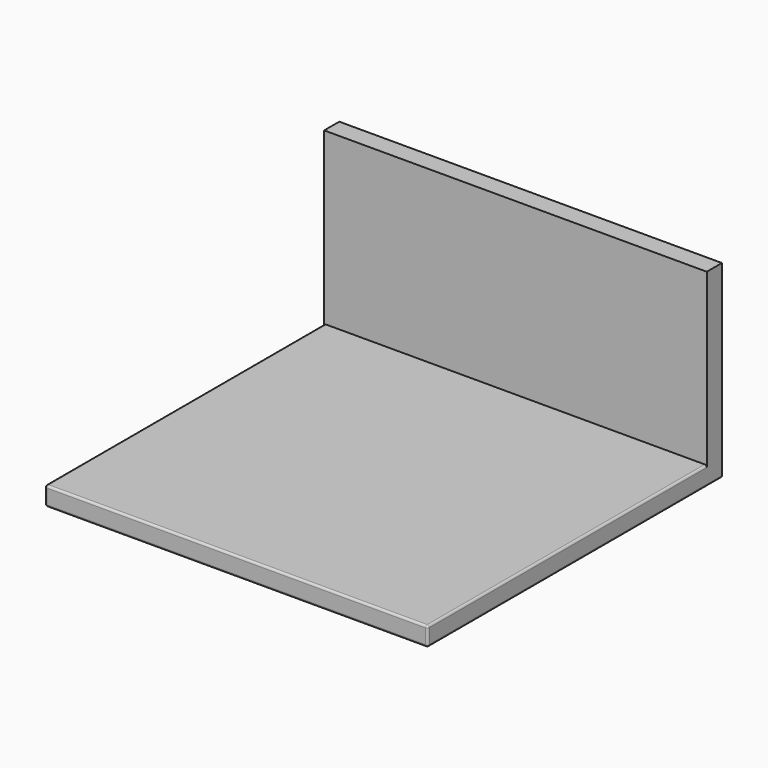
from build123d import *

# Parameters (mm, degrees)
F0_W     = 37.1829867363
F0_H     = 34.0256392956
F1_DEPTH = 350
F2_DEPTH = 400
F3_DEPTH = 180
F4_T     = -18
F5_DEPTH = 36
F6_R     = 2
F7_R     = 2
F8_R     = 2


with BuildPart() as f1:
    # F0 (on Front) → F1 (new body)
    with BuildSketch(Plane.XZ):
        with Locations((18.5914933681, 17.0128196478)):
            Rectangle(F0_W, F0_H)
    extrude(amount=F1_DEPTH)

    # F2 (add): a face of the model
    f2_faces = [f1.faces().sort_by_distance(p)[0] for p in [
        (0, -175, 17.0128196478),
    ]]
    extrude(f2_faces, amount=-F2_DEPTH)

    # F3 (add): a face of the model
    f3_faces = [f1.faces().sort_by_distance(p)[0] for p in [
        (200, -175, 0),
    ]]
    extrude(f3_faces, amount=-F3_DEPTH)

    # F4
    f4_openings = [f1.faces().sort_by_distance(p)[0] for p in [
        (0, -175, 90),
        (200, -350, 90),
        (200, -175, 180),
        (400, -175, 90),
    ]]
    offset(amount=F4_T, openings=f4_openings)

    # F5 (cut): a face of the model
    f5_faces = [f1.faces().sort_by_distance(p)[0] for p in [
        (400, -9, 176.0642662692),
    ]]
    extrude(f5_faces, amount=-F5_DEPTH, mode=Mode.SUBTRACT)

    # F6
    f6_edges = [f1.edges().sort_by_distance(p)[0] for p in [
        (182, -350, 0),
    ]]
    fillet(f6_edges, radius=F6_R)

    # F7
    f7_edges = [f1.edges().sort_by_distance(p)[0] for p in [
        (364, -350, 10),
        (0, -350, 10),
    ]]
    fillet(f7_edges, radius=F7_R)

    # F8
    f8_edges = [f1.edges().sort_by_distance(p)[0] for p in [
        (182, -350, 18),
    ]]
    fillet(f8_edges, radius=F8_R)


solid = f1.part
